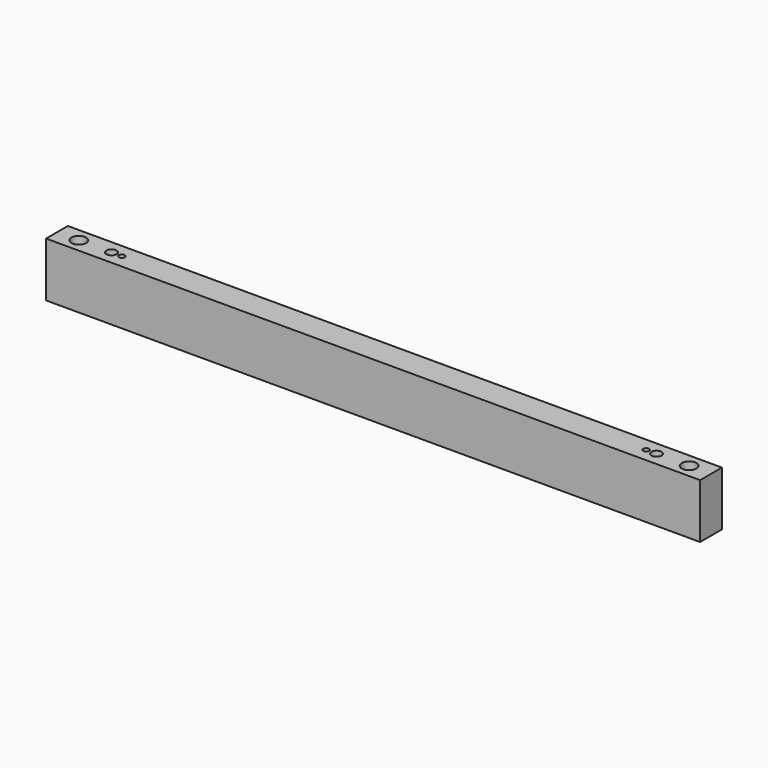
from build123d import *

# Parameters (mm, degrees)
F0_W     = 152.4
F0_H     = 6.35
F0_R     = 1.7272
F0_R_2   = 1.1938
F0_R_3   = 0.6858
F1_DEPTH = 12.7


with BuildPart() as f1:
    # F0 (on Top) → F1 (new body)
    with BuildSketch(Plane.XY):
        with Locations((76.2, 3.175)):
            Rectangle(F0_W, F0_H)
        with Locations((5.08, 3.175)):
            Circle(F0_R, mode=Mode.SUBTRACT)
        with Locations((12.7, 3.175)):
            Circle(F0_R_2, mode=Mode.SUBTRACT)
        with Locations((15.113, 3.175)):
            Circle(F0_R_3, mode=Mode.SUBTRACT)
        with Locations((137.287, 3.175)):
            Circle(F0_R_3, mode=Mode.SUBTRACT)
        with Locations((139.7, 3.175)):
            Circle(F0_R_2, mode=Mode.SUBTRACT)
        with Locations((147.32, 3.175)):
            Circle(F0_R, mode=Mode.SUBTRACT)
    extrude(amount=F1_DEPTH)


solid = f1.part
